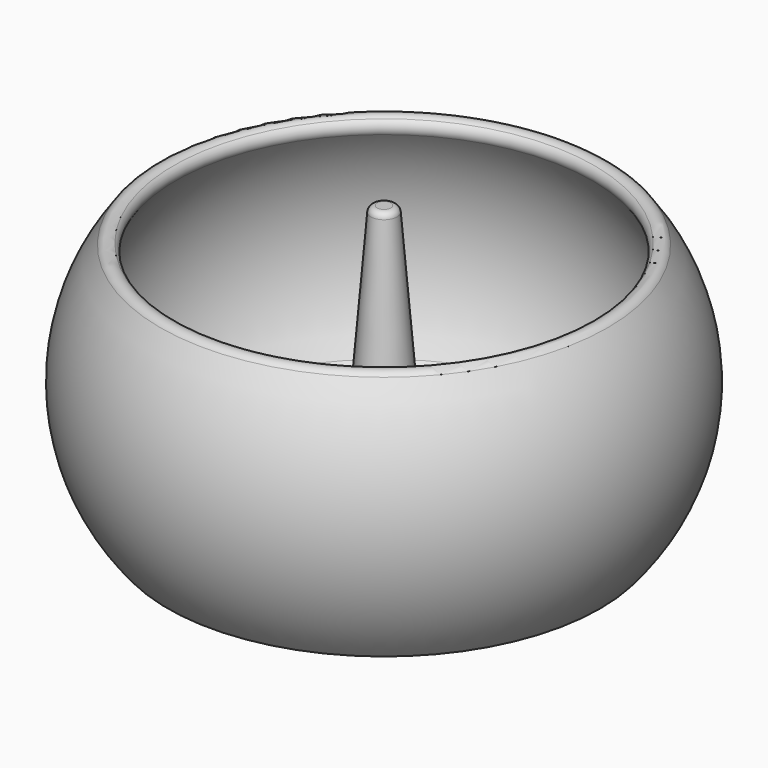
from build123d import *


with BuildPart() as f2:
    # F0 (on Front) → F2 (revolve)
    with BuildSketch(Plane.XZ):
        with BuildLine():
            Line((0, 45), (0, 1.5))
            Line((0, 1.5), (29.25, 1.5))
            ThreePointArc((29.25, 1.5), (29.7803300859, 1.2803300859), (30, 0.75))
            ThreePointArc((30, 0.75), (30.2196699141, 0.2196699141), (30.75, 0))
            Line((30.75, 0), (34.2056958689, 0))
            ThreePointArc((34.2056958689, 0), (41.73942749, 19.5384771004), (35.4022128226, 39.4971571619))
            ThreePointArc((35.4022128226, 39.4971571619), (34.3835046802, 40.0843291923), (33.2543303103, 39.7564534306))
            ThreePointArc((33.2543303103, 39.7564534306), (32.7145395179, 38.7749189101), (33.0052416575, 37.6931257781))
            ThreePointArc((33.0052416575, 37.6931257781), (38.7203838814, 21.8798112249), (34.5613276824, 5.5879108038))
            ThreePointArc((34.5613276824, 5.5879108038), (32.8392184076, 3.8902919757), (30.521851033, 3.1993661541))
            Line((30.521851033, 3.1993661541), (10.8767943457, 3.566437168))
            ThreePointArc((10.8767943457, 3.566437168), (6.7797135401, 5.5308653415), (4.889850039, 9.6628703177))
            Line((4.889850039, 9.6628703177), (2.0751138004, 44.0815073208))
            ThreePointArc((2.0751138004, 44.0815073208), (1.7561182221, 44.735359545), (1.0784410574, 45))
            Line((1.0784410574, 45), (0, 45))
        make_face()
    revolve(axis=Axis((0, 0, 0), (0, 0, 1)))


solid = f2.part
